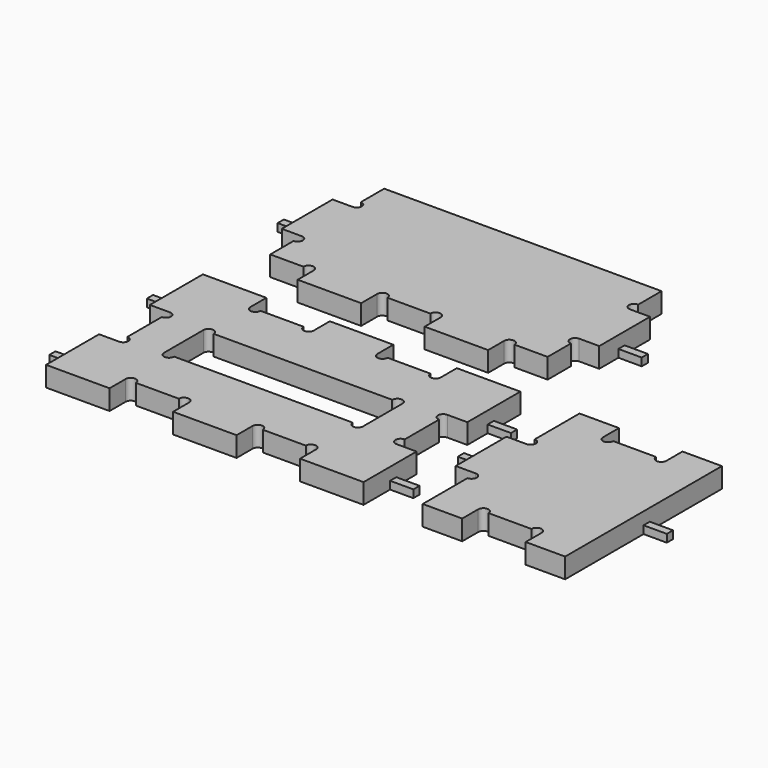
from build123d import *

# Parameters (mm, degrees)
F2_DEPTH  = 12.9
F1_W      = 12.9
F1_H      = 40.872
F1_W_2    = 40.872
F1_H_2    = 12.9
F3_DEPTH  = 12.9
F4_DEPTH  = 12.9
F5_W      = 5
F5_H      = 5
F6_DEPTH  = 15
F7_W      = 5
F7_H      = 5
F8_DEPTH  = 15
F9_W      = 5
F9_H      = 5
F10_DEPTH = 15
F11_W     = 5
F11_H     = 5
F12_DEPTH = 15
F13_W     = 5
F13_H     = 5
F14_DEPTH = 15
F15_W     = 5
F15_H     = 5
F16_DEPTH = 15
F17_W     = 5
F17_H     = 5
F18_DEPTH = 15
F19_W     = 5
F19_H     = 5
F20_DEPTH = 15


with BuildPart() as f2:
    # F1 (on Top) → F2 (new body)
    with BuildSketch(Plane.XY):
        with BuildLine():
            Line((-61.308, 63.0740740741), (-102.18, 63.0740740741))
            Line((-102.18, 63.0740740741), (-102.18, 20.436))
            Line((-102.18, 20.436), (-89.28, 20.436))
            ThreePointArc((-89.28, 20.436), (-86.9451334085, 19.4688665915), (-85.978, 17.134))
            ThreePointArc((-85.978, 17.134), (-86.9451334085, 14.7991334085), (-89.28, 13.832))
            Line((-89.28, 13.832), (-89.28, -13.832))
            ThreePointArc((-89.28, -13.832), (-86.9451334085, -14.7991334085), (-85.978, -17.134))
            ThreePointArc((-85.978, -17.134), (-86.9451334085, -19.4688665915), (-89.28, -20.436))
            Line((-89.28, -20.436), (-102.18, -20.436))
            Line((-102.18, -20.436), (-102.18, -63.0740740741))
            Line((-102.18, -63.0740740741), (-61.308, -63.0740740741))
            Line((-61.308, -63.0740740741), (-61.308, -50.1740740741))
            ThreePointArc((-61.308, -50.1740740741), (-58.006, -46.8720740741), (-54.704, -50.1740740741))
            Line((-54.704, -50.1740740741), (-27.04, -50.1740740741))
            ThreePointArc((-27.04, -50.1740740741), (-23.738, -46.8720740741), (-20.436, -50.1740740741))
            Line((-20.436, -50.1740740741), (-20.436, -63.0740740741))
            Line((-20.436, -63.0740740741), (20.436, -63.0740740741))
            Line((20.436, -63.0740740741), (20.436, -50.1740740741))
            ThreePointArc((20.436, -50.1740740741), (23.738, -46.8720740741), (27.04, -50.1740740741))
            Line((27.04, -50.1740740741), (54.704, -50.1740740741))
            ThreePointArc((54.704, -50.1740740741), (58.006, -46.8720740741), (61.308, -50.1740740741))
            Line((61.308, -50.1740740741), (61.308, -63.0740740741))
            Line((61.308, -63.0740740741), (102.18, -63.0740740741))
            Line((102.18, -63.0740740741), (102.18, -20.436))
            Line((102.18, -20.436), (89.28, -20.436))
            ThreePointArc((89.28, -20.436), (85.978, -17.134), (89.28, -13.832))
            Line((89.28, -13.832), (89.28, 13.832))
            ThreePointArc((89.28, 13.832), (85.978, 17.134), (89.28, 20.436))
            Line((89.28, 20.436), (102.18, 20.436))
            Line((102.18, 20.436), (102.18, 63.0740740741))
            Line((102.18, 63.0740740741), (61.308, 63.0740740741))
            Line((61.308, 63.0740740741), (61.308, 50.1740740741))
            ThreePointArc((61.308, 50.1740740741), (58.006, 46.8720740741), (54.704, 50.1740740741))
            Line((54.704, 50.1740740741), (27.04, 50.1740740741))
            ThreePointArc((27.04, 50.1740740741), (23.738, 46.8720740741), (20.436, 50.1740740741))
            Line((20.436, 50.1740740741), (20.436, 63.0740740741))
            Line((20.436, 63.0740740741), (-20.436, 63.0740740741))
            Line((-20.436, 63.0740740741), (-20.436, 50.1740740741))
            ThreePointArc((-20.436, 50.1740740741), (-23.738, 46.8720740741), (-27.04, 50.1740740741))
            Line((-27.04, 50.1740740741), (-54.704, 50.1740740741))
            ThreePointArc((-54.704, 50.1740740741), (-58.006, 46.8720740741), (-61.308, 50.1740740741))
            Line((-61.308, 50.1740740741), (-61.308, 63.0740740741))
        make_face()
        with BuildLine():
            Line((57.476, -15.9), (-57.476, -15.9))
            ThreePointArc((-57.476, -15.9), (-60.778, -19.202), (-64.08, -15.9))
            Line((-64.08, -15.9), (-64.08, 15.9))
            ThreePointArc((-64.08, 15.9), (-60.778, 19.202), (-57.476, 15.9))
            Line((-57.476, 15.9), (57.476, 15.9))
            ThreePointArc((57.476, 15.9), (60.778, 19.202), (64.08, 15.9))
            Line((64.08, 15.9), (64.08, -15.9))
            ThreePointArc((64.08, -15.9), (60.778, -19.202), (57.476, -15.9))
        make_face(mode=Mode.SUBTRACT)
    extrude(amount=F2_DEPTH)

    # F5 (on face) → F6 (join)
    with BuildSketch(Plane(origin=(-102.18, 0, 0), x_dir=(0, -1, 0), z_dir=(-1, 0, 0))):
        with Locations((-39.255037037, 2.5)):
            Rectangle(F5_W, F5_H)
    extrude(amount=F6_DEPTH)

    # F7 (on face) → F8 (join)
    with BuildSketch(Plane(origin=(-102.18, 0, 0), x_dir=(0, -1, 0), z_dir=(-1, 0, 0))):
        with Locations((39.255037037, 2.5)):
            Rectangle(F7_W, F7_H)
    extrude(amount=F8_DEPTH)

    # F9 (on face) → F10 (join)
    with BuildSketch(Plane.YZ.offset(102.18)):
        with Locations((-39.255037037, 2.5)):
            Rectangle(F9_W, F9_H)
    extrude(amount=F10_DEPTH)

    # F11 (on face) → F12 (join)
    with BuildSketch(Plane.YZ.offset(102.18)):
        with Locations((39.255037037, 2.5)):
            Rectangle(F11_W, F11_H)
    extrude(amount=F12_DEPTH)


with BuildPart() as f3:
    # F1 (on Top) → F3 (new body)
    with BuildSketch(Plane.XY):
        with BuildLine():
            ThreePointArc((-67.912, 101.1740740741), (-64.61, 104.4760740741), (-61.308, 101.1740740741))
            Line((-61.308, 101.1740740741), (-20.436, 101.1740740741))
            ThreePointArc((-20.436, 101.1740740741), (-17.134, 104.4760740741), (-13.832, 101.1740740741))
            Line((-13.832, 101.1740740741), (13.832, 101.1740740741))
            ThreePointArc((13.832, 101.1740740741), (17.134, 104.4760740741), (20.436, 101.1740740741))
            Line((20.436, 101.1740740741), (61.308, 101.1740740741))
            ThreePointArc((61.308, 101.1740740741), (64.61, 104.4760740741), (67.912, 101.1740740741))
            Line((67.912, 101.1740740741), (89.28, 101.1740740741))
            Line((89.28, 101.1740740741), (89.28, 119.9700740741))
            ThreePointArc((89.28, 119.9700740741), (85.978, 123.2720740741), (89.28, 126.5740740741))
            Line((89.28, 126.5740740741), (89.28, 167.4460740741))
            ThreePointArc((89.28, 167.4460740741), (85.978, 170.7480740741), (89.28, 174.0500740741))
            Line((89.28, 174.0500740741), (89.28, 192.8460740741))
            Line((89.28, 192.8460740741), (-89.28, 192.8460740741))
            Line((-89.28, 192.8460740741), (-89.28, 174.0500740741))
            ThreePointArc((-89.28, 174.0500740741), (-86.9451334085, 173.0829406656), (-85.978, 170.7480740741))
            ThreePointArc((-85.978, 170.7480740741), (-86.9451334085, 168.4132074826), (-89.28, 167.4460740741))
            Line((-89.28, 167.4460740741), (-89.28, 126.5740740741))
            ThreePointArc((-89.28, 126.5740740741), (-86.9451334085, 125.6069406656), (-85.978, 123.2720740741))
            ThreePointArc((-85.978, 123.2720740741), (-86.9451334085, 120.9372074826), (-89.28, 119.9700740741))
            Line((-89.28, 119.9700740741), (-89.28, 101.1740740741))
            Line((-89.28, 101.1740740741), (-67.912, 101.1740740741))
        make_face()
        with Locations((-95.73, 147.0100740741)):
            Rectangle(F1_W, F1_H)
        with Locations((-40.872, 94.7240740741)):
            Rectangle(F1_W_2, F1_H_2)
        with Locations((40.872, 94.7240740741)):
            Rectangle(F1_W_2, F1_H_2)
        with Locations((95.73, 147.0100740741)):
            Rectangle(F1_W, F1_H)
    extrude(amount=F3_DEPTH)

    # F13 (on face) → F14 (join)
    with BuildSketch(Plane(origin=(-102.18, 0, 0), x_dir=(0, -1, 0), z_dir=(-1, 0, 0))):
        with Locations((-144.5100740741, 2.5)):
            Rectangle(F13_W, F13_H)
        with Locations((-144.5100740741, 2.5)):
            Rectangle(F13_W, F13_H)
    extrude(amount=F14_DEPTH)

    # F15 (on face) → F16 (join)
    with BuildSketch(Plane.YZ.offset(102.18)):
        with Locations((144.5100740741, 2.5)):
            Rectangle(F15_W, F15_H)
    extrude(amount=F16_DEPTH)


with BuildPart() as f4:
    # F1 (on Top) → F4 (new body)
    with BuildSketch(Plane.XY):
        with BuildLine():
            ThreePointArc((143.582, 23.738), (142.6148665915, 21.4031334085), (140.28, 20.436))
            Line((140.28, 20.436), (140.28, -20.436))
            ThreePointArc((140.28, -20.436), (142.6148665915, -21.4031334085), (143.582, -23.738))
            ThreePointArc((143.582, -23.738), (142.6148665915, -26.0728665915), (140.28, -27.04))
            Line((140.28, -27.04), (140.28, -63.0740740741))
            Line((140.28, -63.0740740741), (165.68, -63.0740740741))
            Line((165.68, -63.0740740741), (165.68, -50.1740740741))
            ThreePointArc((165.68, -50.1740740741), (168.982, -46.8720740741), (172.284, -50.1740740741))
            Line((172.284, -50.1740740741), (199.948, -50.1740740741))
            ThreePointArc((199.948, -50.1740740741), (203.25, -46.8720740741), (206.552, -50.1740740741))
            Line((206.552, -50.1740740741), (206.552, -63.0740740741))
            Line((206.552, -63.0740740741), (231.952, -63.0740740741))
            Line((231.952, -63.0740740741), (231.952, 63.0740740741))
            Line((231.952, 63.0740740741), (206.552, 63.0740740741))
            Line((206.552, 63.0740740741), (206.552, 50.1740740741))
            ThreePointArc((206.552, 50.1740740741), (203.25, 46.8720740741), (199.948, 50.1740740741))
            Line((199.948, 50.1740740741), (172.284, 50.1740740741))
            ThreePointArc((172.284, 50.1740740741), (168.982, 46.8720740741), (165.68, 50.1740740741))
            Line((165.68, 50.1740740741), (165.68, 63.0740740741))
            Line((165.68, 63.0740740741), (140.28, 63.0740740741))
            Line((140.28, 63.0740740741), (140.28, 27.04))
            ThreePointArc((140.28, 27.04), (142.6148665915, 26.0728665915), (143.582, 23.738))
        make_face()
        with Locations((133.83, 0)):
            Rectangle(F1_W, F1_H)
    extrude(amount=F4_DEPTH)

    # F17 (on face) → F18 (join)
    with BuildSketch(Plane(origin=(127.38, 0, 0), x_dir=(0, -1, 0), z_dir=(-1, 0, 0))):
        with Locations((-2.5, 2.5)):
            Rectangle(F17_W, F17_H)
    extrude(amount=F18_DEPTH)

    # F19 (on face) → F20 (join)
    with BuildSketch(Plane.YZ.offset(231.952)):
        with Locations((2.5, 2.5)):
            Rectangle(F19_W, F19_H)
    extrude(amount=F20_DEPTH)


solid = Compound([f2.part, f3.part, f4.part])
